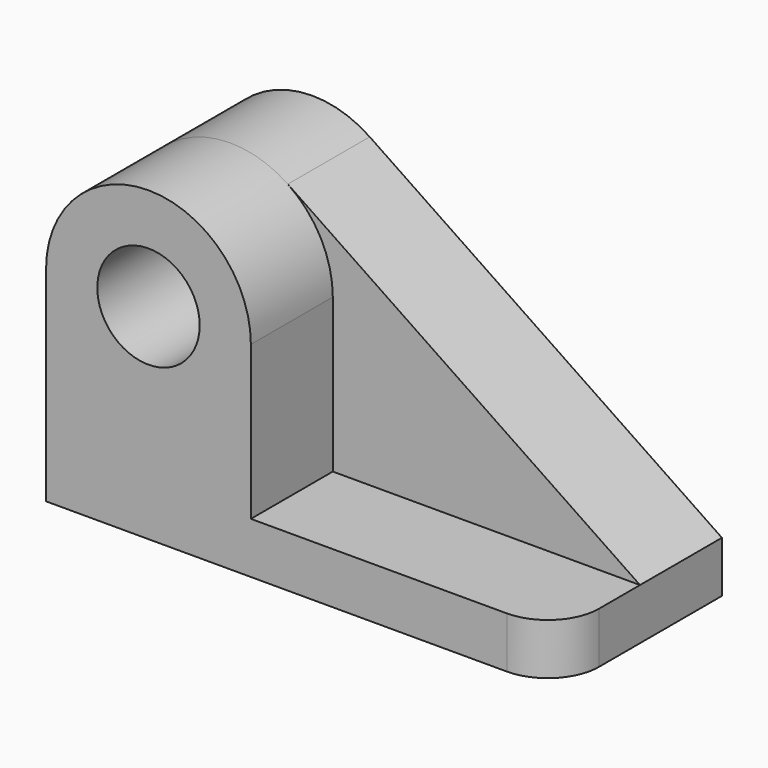
from build123d import *

# Parameters (mm, degrees)
F0_R     = 12.7
F1_DEPTH = 25.4
F2_R     = 12.7
F3_DEPTH = 25.4
F4_R     = 12.7


with BuildPart() as f1:
    # F0 (on Front) → F1 (new body)
    with BuildSketch(Plane.XZ):
        with BuildLine():
            Line((50.6083145556, -19.7611999094), (-36.7538123162, 39.3731284323))
            ThreePointArc((-36.7538123162, 39.3731284323), (-62.897944776, 40.7753994034), (-76.3916854444, 18.3388000906))
            Line((-76.3916854444, 18.3388000906), (-76.3916854444, -32.4611999094))
            Line((-76.3916854444, -32.4611999094), (50.6083145556, -32.4611999094))
            Line((50.6083145556, -32.4611999094), (50.6083145556, -19.7611999094))
        make_face()
        with Locations((-50.9916854444, 18.3388000906)):
            Circle(F0_R, mode=Mode.SUBTRACT)
    extrude(amount=F1_DEPTH)

    # F2 (on face) → F3 (join)
    with BuildSketch(Plane.XZ.offset(25.4)):
        with BuildLine():
            Line((-25.5916854444, -19.7611999094), (-25.5916854444, 18.3388000906))
            ThreePointArc((-25.5916854444, 18.3388000906), (-50.9916854444, 43.7388000906), (-76.3916854444, 18.3388000906))
            Line((-76.3916854444, 18.3388000906), (-76.3916854444, -19.7611999094))
            Line((-76.3916854444, -19.7611999094), (-76.3916854444, -32.4611999094))
            Line((-76.3916854444, -32.4611999094), (50.6083145556, -32.4611999094))
            Line((50.6083145556, -32.4611999094), (50.6083145556, -19.7611999094))
            Line((50.6083145556, -19.7611999094), (-25.5916854444, -19.7611999094))
        make_face()
        with Locations((-50.9916854444, 18.3388000906)):
            Circle(F2_R, mode=Mode.SUBTRACT)
    extrude(amount=F3_DEPTH)

    # F4
    f4_edges = [f1.edges().sort_by_distance(p)[0] for p in [
        (50.608315, -50.8, -26.1112),
    ]]
    fillet(f4_edges, radius=F4_R)


solid = f1.part
